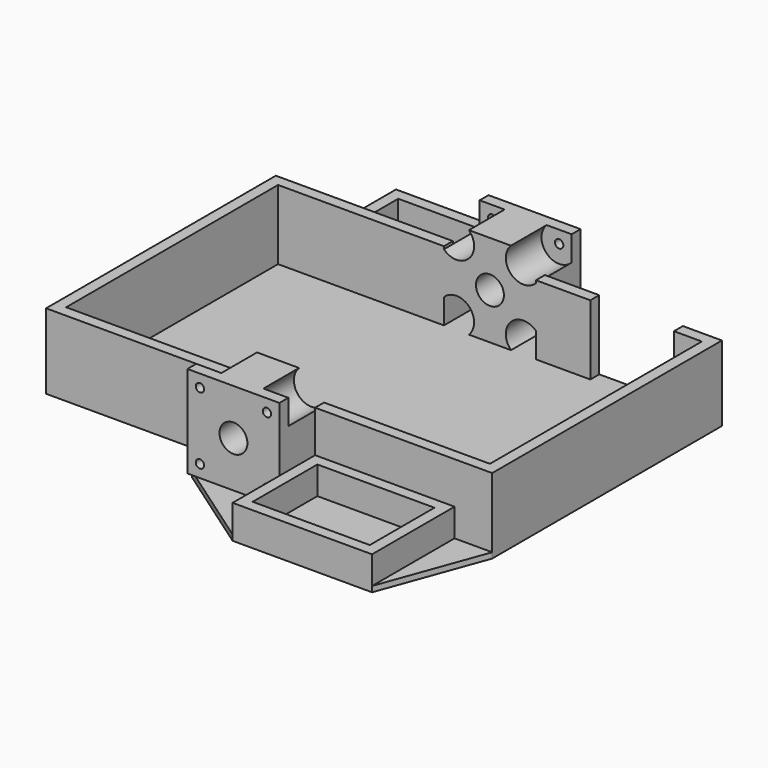
from build123d import *

# Parameters (mm, degrees)
PAD027_DEPTH    = 2
PAD028_DEPTH    = 25
PAD029_DEPTH    = 33
SKETCH050_R     = 1.5
SKETCH050_R_2   = 5
POCKET020_DEPTH = 101.5
SKETCH051_W     = 50
SKETCH051_H     = 37
SKETCH051_W_2   = 42
SKETCH051_H_2   = 29
PAD030_DEPTH    = 10
POCKET021_DEPTH = 63.5


with BuildPart() as part:
    # Sketch046 → Pad027 (new body)
    with BuildSketch(Plane.XY):
        Polygon((16.5, 65.5), (-16.5, 88.5), (-66.5, 88.5), (-80, 51.5), (-80, -51.5), (-16.5, -51.5), (-16.5, -65.5), (16.5, -88.5), (66.5, -88.5), (80, -51.5), (80, 51.5), (16.5, 51.5), align=None)
    extrude(amount=-PAD027_DEPTH)

    # Sketch047 → Pad028 (join)
    with BuildSketch(Plane.XY):
        Polygon((76, 47.5), (76, -47.5), (15.5, -47.5), (-15.5, -47.5), (-76, -47.5), (-76, 47.5), (-15.5, 47.5), (15.5, 47.5), (36, 47.5), (36, 51.5), (15.5, 51.5), (-15.5, 51.5), (-80, 51.5), (-80, -51.5), (-15.5, -51.5), (15.5, -51.5), (80, -51.5), (80, 51.5), (66, 51.5), (66, 47.5), align=None)
    extrude(amount=PAD028_DEPTH)

    # Sketch048 (on Face7 of Pad028) → Pad029 (join)
    with BuildSketch(Plane.XY):
        Polygon((-16.5, 67.5), (16.5, 67.5), (16.5, 51.5), (16.5, 47.5), (-16.5, 47.5), (-16.5, 51.5), align=None)
        Polygon((16.5, -51.5), (16.5, -67.5), (-16.5, -67.5), (-16.5, -51.5), (-16.5, -47.5), (16.5, -47.5), align=None)
    extrude(amount=PAD029_DEPTH)

    # Sketch050 → Pocket020 (cut, symmetric)
    with BuildSketch(Plane.XZ):
        with Locations((-12.020815, 4.479185)):
            Circle(SKETCH050_R)
        with Locations((12.020815, 28.520815)):
            Circle(SKETCH050_R)
        with Locations((-12.020815, 28.520815)):
            Circle(SKETCH050_R)
        with Locations((12.020815, 4.479185)):
            Circle(SKETCH050_R)
        with Locations((0, 16.5)):
            Circle(SKETCH050_R_2)
    extrude(amount=POCKET020_DEPTH, both=True, mode=Mode.SUBTRACT)

    # Sketch051 → Pad030 (join)
    with BuildSketch(Plane.XY):
        with Locations((-41.5, 70)):
            Rectangle(SKETCH051_W, SKETCH051_H)
        with Locations((-41.5, 70)):
            Rectangle(SKETCH051_W_2, SKETCH051_H_2, mode=Mode.SUBTRACT)
        with Locations((41.5, -70)):
            Rectangle(SKETCH051_W, SKETCH051_H)
        with Locations((41.5, -70)):
            Rectangle(SKETCH051_W_2, SKETCH051_H_2, mode=Mode.SUBTRACT)
    extrude(amount=PAD030_DEPTH)

    # Sketch058 → Pocket021 (cut, symmetric)
    with BuildSketch(Plane.XZ):
        with BuildLine():
            Line((-16.5, 33), (-16.5, 24.041631))
            ThreePointArc((-16.5, 24.041631), (-7.541631, 24.041631), (-7.541631, 33))
            Line((-16.5, 33), (-7.541631, 33))
        make_face()
        with BuildLine():
            Line((16.5, 33), (16.5, 24.041631))
            ThreePointArc((7.541631, 33), (7.541631, 24.041631), (16.5, 24.041631))
            Line((16.5, 33), (7.541631, 33))
        make_face()
        with BuildLine():
            Line((-16.5, 0), (-16.5, 8.958369))
            ThreePointArc((-7.541631, 0), (-7.541631, 8.958369), (-16.5, 8.958369))
            Line((-16.5, 0), (-7.541631, 0))
        make_face()
        with BuildLine():
            Line((16.5, 0), (7.541631, 0))
            ThreePointArc((16.5, 8.958369), (7.541631, 8.958369), (7.541631, 0))
            Line((16.5, 0), (16.5, 8.958369))
        make_face()
    extrude(amount=POCKET021_DEPTH, both=True, mode=Mode.SUBTRACT)


solid = part.part
